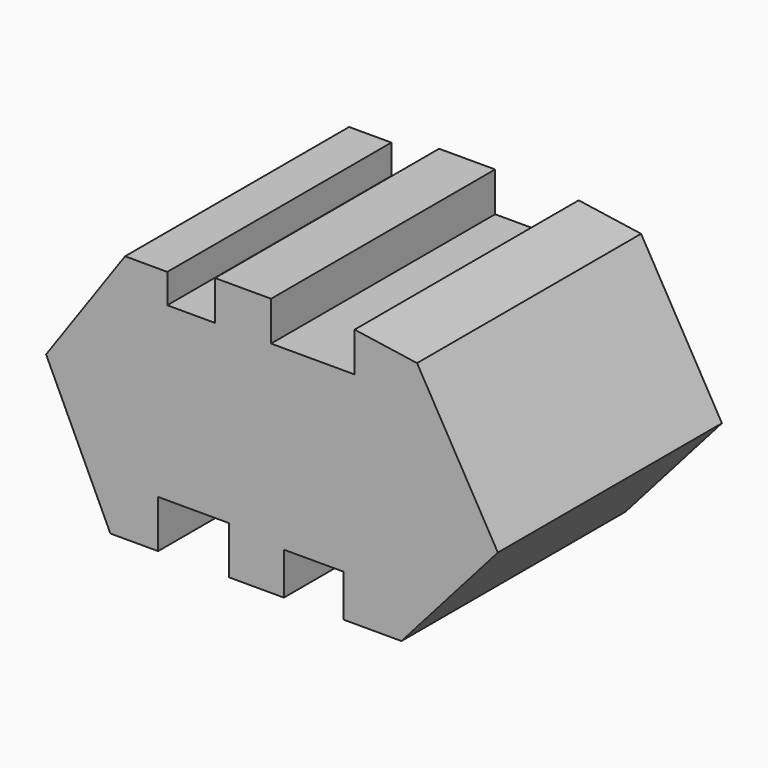
from build123d import *

# Parameters (mm, degrees)
F1_DEPTH = 127


with BuildPart() as f1:
    # F0 (on Front) → F1 (new body)
    with BuildSketch(Plane.XZ):
        Polygon((17.904928, -26.753275), (-18.737698, 36.954926), (-47.052456, 41.118862), (-47.052456, 23.213938), (-84.944265, 23.213938), (-84.944265, 41.118862), (-110.344265, 41.118862), (-110.344265, 23.213938), (-131.996729, 23.213938), (-131.996729, 36.538529), (-151.150833, 36.538529), (-186.960668, -14.261471), (-157.813121, -76.304103), (-136.160668, -76.304103), (-136.160668, -54.651639), (-104.098369, -54.651639), (-104.098369, -76.304103), (-79.11475, -76.304103), (-79.11475, -57.150005), (-52.049178, -57.150005), (-52.049178, -76.304103), (-25.816389, -76.304103), align=None)
    extrude(amount=F1_DEPTH)


solid = f1.part
